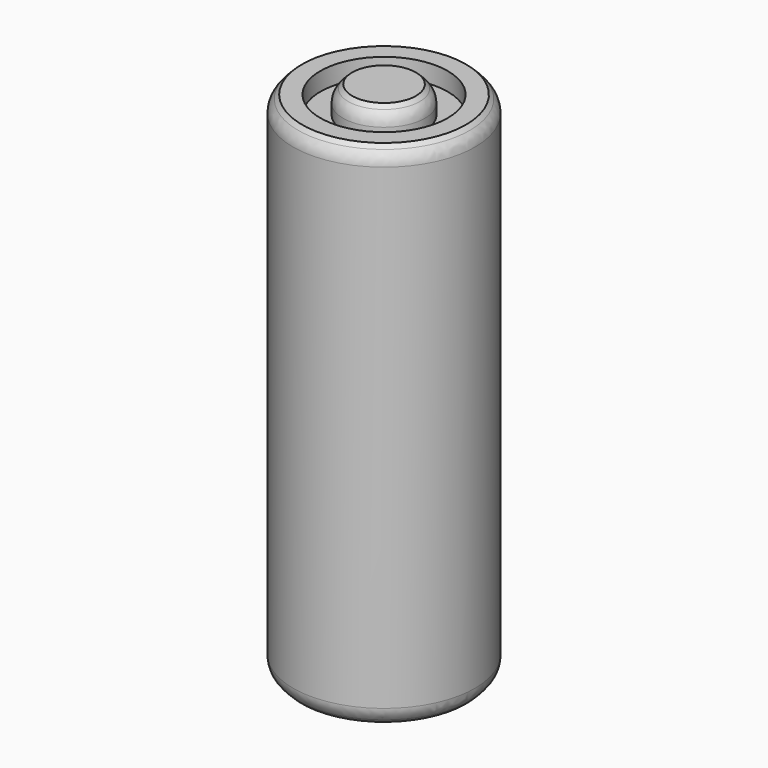
from build123d import *

# Parameters (mm, degrees)
SKETCH_R        = 5
PAD_DEPTH       = 28
CHAMFER_SIZE    = 0.5
CHAMFER001_SIZE = 0.5
SKETCH001_R     = 3.5
POCKET_DEPTH    = 1
FILLET_R        = 1
FILLET001_R     = 1
SKETCH002_R     = 2.25
PAD001_DEPTH    = 1.5
CHAMFER002_SIZE = 0.5
FILLET002_R     = 1
SKETCH003_R     = 3.5
POCKET001_DEPTH = 0.5
SKETCH004_R     = 2.25
POCKET002_DEPTH = 1
SKETCH005_R     = 2.25
PAD002_DEPTH    = 1
PAD003_DEPTH    = 1.5
FILLET003_R     = 0.49
FILLET004_R     = 0.49


with BuildPart() as part:
    # Sketch → Pad (new body)
    with BuildSketch(Plane.XY):
        Circle(SKETCH_R)
    extrude(amount=PAD_DEPTH)

    # Chamfer
    chamfer_edges = [part.edges().sort_by_distance(p)[0] for p in [
        (-5, 0, 0),
    ]]
    chamfer(chamfer_edges, length=CHAMFER_SIZE)

    # Chamfer001
    chamfer001_edges = [part.edges().sort_by_distance(p)[0] for p in [
        (-5, 0, 28),
    ]]
    chamfer(chamfer001_edges, length=CHAMFER001_SIZE)

    # Sketch001 (on Face4 of Chamfer001) → Pocket (cut)
    with BuildSketch(Plane.XY.offset(28)):
        Circle(SKETCH001_R)
    extrude(amount=-POCKET_DEPTH, mode=Mode.SUBTRACT)

    # Fillet
    fillet_edges = [part.edges().sort_by_distance(p)[0] for p in [
        (-5, 0, 27.5),
    ]]
    fillet(fillet_edges, radius=FILLET_R)

    # Fillet001
    fillet001_edges = [part.edges().sort_by_distance(p)[0] for p in [
        (-5, 0, 0.5),
    ]]
    fillet(fillet001_edges, radius=FILLET001_R)

    # Sketch002 (on Face9 of Fillet001) → Pad001 (join)
    with BuildSketch(Plane.XY.offset(27)):
        Circle(SKETCH002_R)
    extrude(amount=PAD001_DEPTH)

    # Chamfer002
    chamfer002_edges = [part.edges().sort_by_distance(p)[0] for p in [
        (-2.25, 0, 28.5),
    ]]
    chamfer(chamfer002_edges, length=CHAMFER002_SIZE)

    # Fillet002
    fillet002_edges = [part.edges().sort_by_distance(p)[0] for p in [
        (-2.25, 0, 28),
    ]]
    fillet(fillet002_edges, radius=FILLET002_R)

    # Sketch003 (on Face6 of Pad001) → Pocket001 (cut)
    with BuildSketch(Plane(origin=(0, 0, 0), x_dir=(1, 0, 0), z_dir=(0, 0, -1))):
        Circle(SKETCH003_R)
    extrude(amount=-POCKET001_DEPTH, mode=Mode.SUBTRACT)

    # Sketch004 (on Face15 of Pocket001) → Pocket002 (cut)
    with BuildSketch(Plane(origin=(0, 0, 0.5), x_dir=(1, 0, 0), z_dir=(0, 0, -1))):
        Circle(SKETCH004_R)
    extrude(amount=-POCKET002_DEPTH, mode=Mode.SUBTRACT)

    # Sketch005 (on Face17 of Pocket002) → Pad002 (join)
    with BuildSketch(Plane(origin=(0, 0, 1.5), x_dir=(1, 0, 0), z_dir=(0, 0, -1))):
        Circle(SKETCH005_R)
    extrude(amount=PAD002_DEPTH)

    # Sketch005 (on Face17 of Pocket002) → Pad003 (join)
    with BuildSketch(Plane(origin=(0, 0, 1.5), x_dir=(1, 0, 0), z_dir=(0, 0, -1))):
        Circle(SKETCH005_R)
    extrude(amount=PAD003_DEPTH)

    # Fillet003
    fillet003_edges = [part.edges().sort_by_distance(p)[0] for p in [
        (-2.25, 0, 0),
    ]]
    fillet(fillet003_edges, radius=FILLET003_R)

    # Fillet004
    fillet004_edges = [part.edges().sort_by_distance(p)[0] for p in [
        (-3.5, 0, 0),
    ]]
    fillet(fillet004_edges, radius=FILLET004_R)


solid = part.part
